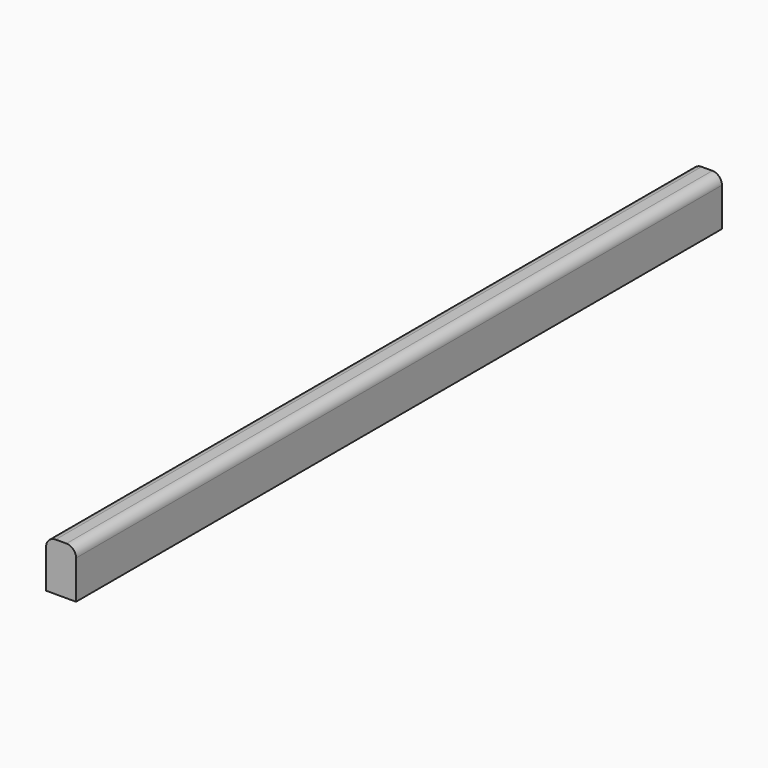
from build123d import *

# Parameters (mm, degrees)
PAD_DEPTH = 560


with BuildPart() as part:
    # Sketch → Pad (new body)
    with BuildSketch(Plane.XZ):
        with BuildLine():
            Line((-10.4, 26.74), (-10.4, 0))
            Line((-10.4, 0), (10.4, 0))
            Line((10.4, 0), (10.4, 26.74))
            ThreePointArc((10.4, 26.74), (8.449331, 31.449331), (3.74, 33.4))
            Line((3.74, 33.4), (-3.74, 33.4))
            ThreePointArc((-3.74, 33.4), (-8.449331, 31.449331), (-10.4, 26.74))
        make_face()
    extrude(amount=-PAD_DEPTH)


solid = part.part
